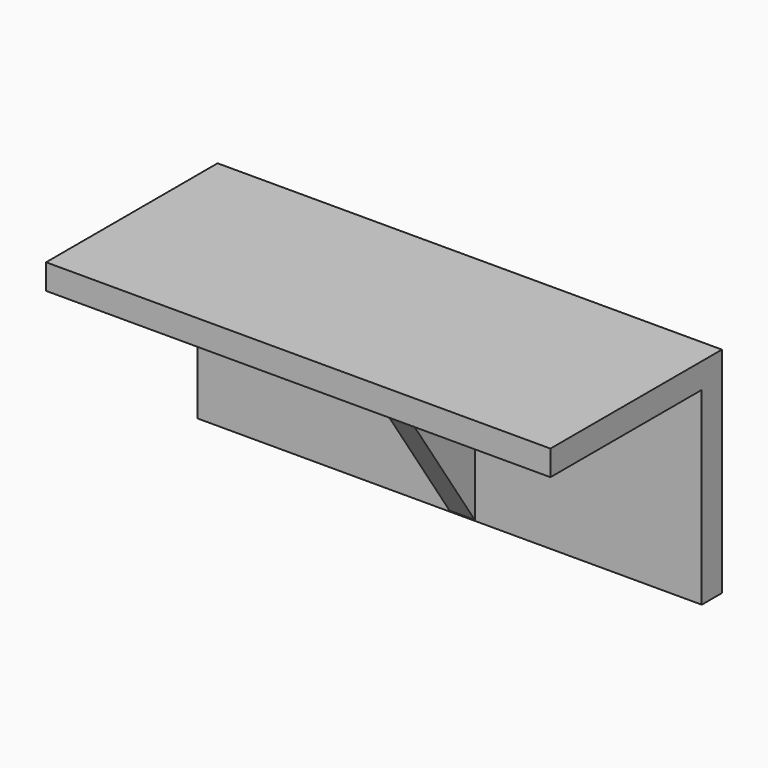
from build123d import *

# Parameters (mm, degrees)
F0_W     = 40
F0_H     = 17
F1_DEPTH = 2
F2_W     = 40
F2_H     = 2
F3_DEPTH = 15
F5_DEPTH = 2


with BuildPart() as f1:
    # F0 (on Front) → F1 (new body)
    with BuildSketch(Plane.XZ):
        Rectangle(F0_W, F0_H)
    extrude(amount=F1_DEPTH)

    # F2 (on face) → F3 (join)
    with BuildSketch(Plane.XZ.offset(2)):
        with Locations((0, 7.5)):
            Rectangle(F2_W, F2_H)
    extrude(amount=F3_DEPTH)

    # F4 (on Right) → F5 (join)
    with BuildSketch(Plane.YZ):
        Polygon((-1.942217, 6.504434), (-11.956673, 6.441844), (-1.942217, -8.517251), align=None)
    extrude(amount=F5_DEPTH)


solid = f1.part
